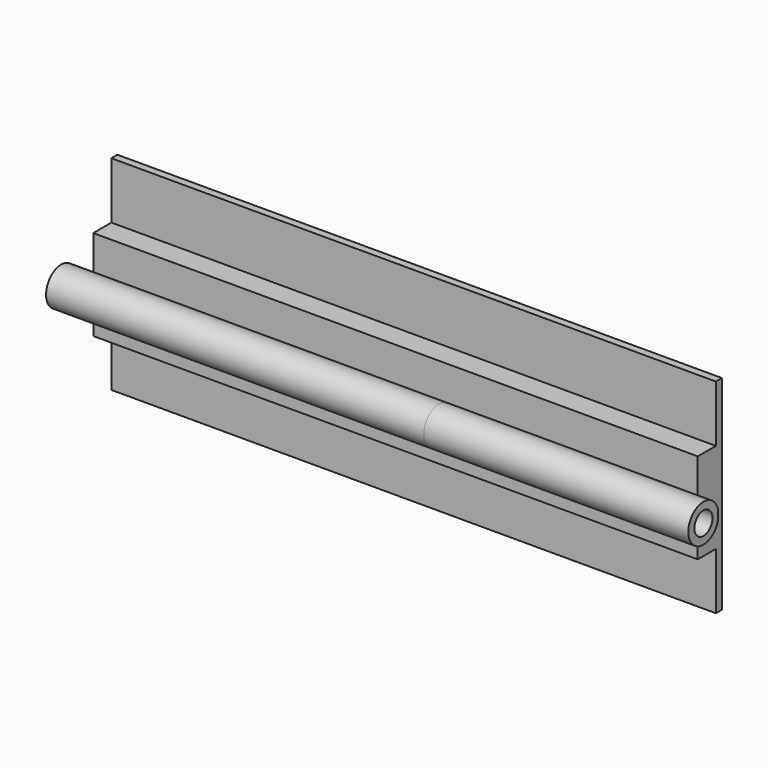
from build123d import *

# Parameters (mm, degrees)
F0_W      = 80
F0_H      = 6
F1_DEPTH  = 3
F0_H_2    = 7.5
F2_DEPTH  = 1
F3_R      = 2.5
F3_R_2    = 1.5
F4_DEPTH  = 50
F4_FACE_R = 1.5
F5_DEPTH  = 35


with BuildPart() as f1:
    # F0 (on Front) → F1 (new body)
    with BuildSketch(Plane.XZ):
        with Locations((-7.669735, 16.5)):
            Rectangle(F0_W, F0_H)
        with Locations((-7.669735, 10.5)):
            Rectangle(F0_W, F0_H)
    extrude(amount=F1_DEPTH)

    # F0 (on Front) → F2 (join)
    with BuildSketch(Plane.XZ):
        with Locations((-7.669735, 23.25)):
            Rectangle(F0_W, F0_H_2)
        with Locations((-7.669735, 3.75)):
            Rectangle(F0_W, F0_H_2)
        with Locations((-7.669735, 10.5)):
            Rectangle(F0_W, F0_H)
        with Locations((-7.669735, 16.5)):
            Rectangle(F0_W, F0_H)
    extrude(amount=-F2_DEPTH)

    # F3 (on Right) → F4 (join)
    with BuildSketch(Plane.YZ):
        with Locations((-5.398772, 13.555951)):
            Circle(F3_R)
        with Locations((-5.398772, 13.555951)):
            Circle(F3_R_2, mode=Mode.SUBTRACT)
    extrude(amount=-F4_DEPTH)

    # F4_face (on face) → F5 (join)
    with BuildSketch(Plane(origin=(0, -5.41744, 13.555951), x_dir=(0, 1, 0), z_dir=(1, 0, 0))):
        with BuildLine():
            Line((2.41744, -0.704196), (2.41744, 0.704196))
            ThreePointArc((2.41744, 0.704196), (-2.481332, 0), (2.41744, -0.704196))
        make_face()
        with Locations((0.018668, 0)):
            Circle(F4_FACE_R, mode=Mode.SUBTRACT)
    extrude(amount=F5_DEPTH)


solid = f1.part
